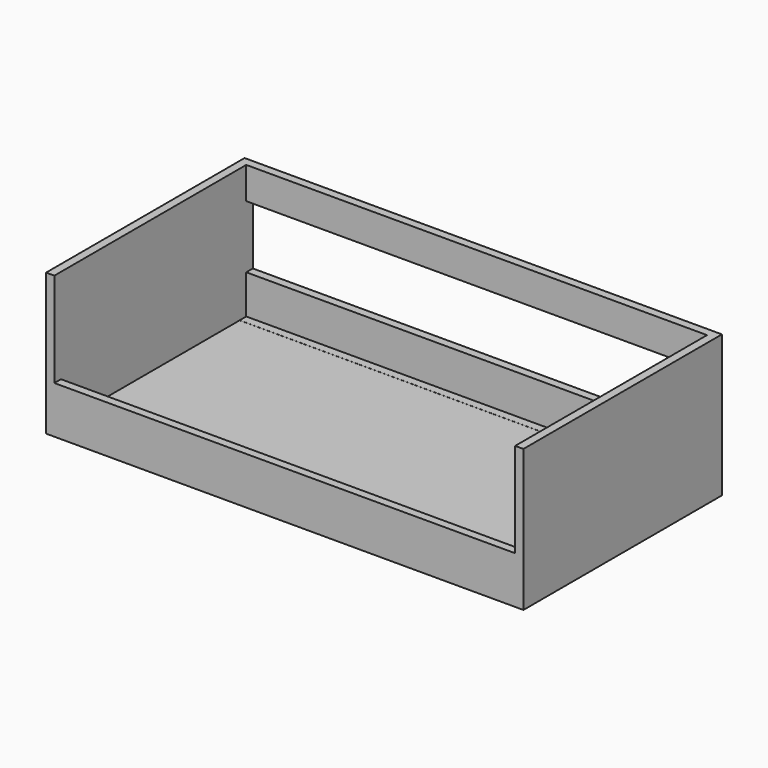
from build123d import *

# Parameters (mm, degrees)
F0_W     = 1950
F0_H     = 35
F1_DEPTH = 1050
F0_H_2   = 135
F0_H_3   = 165
F2_DEPTH = 35
F3_W     = 35
F3_H     = 35
F4_DEPTH = 975


with BuildPart() as f1:
    # F0 (on Front) → F1 (new body)
    with BuildSketch(Plane.XZ):
        Polygon((-975, -65), (-975, 100), (-975, 365), (-975, 500), (-1010, 500), (-1010, -100), (-975, -100), align=None)
        with Locations((0, -82.5)):
            Rectangle(F0_W, F0_H)
        Polygon((975, 365), (975, 100), (975, -65), (975, -100), (1010, -100), (1010, 500), (975, 500), align=None)
    extrude(amount=F1_DEPTH)

    # F0 (on Front) → F2 (join)
    with BuildSketch(Plane.XZ):
        Polygon((-975, -65), (-975, 100), (-975, 365), (-975, 500), (-1010, 500), (-1010, -100), (-975, -100), align=None)
        Polygon((975, 365), (975, 100), (975, -65), (975, -100), (1010, -100), (1010, 500), (975, 500), align=None)
        with Locations((0, -82.5)):
            Rectangle(F0_W, F0_H)
        with Locations((0, 432.5)):
            Rectangle(F0_W, F0_H_2)
        with Locations((0, 17.5)):
            Rectangle(F0_W, F0_H_3)
    extrude(amount=F2_DEPTH)

    # F3 (on Right) → F4 (join, symmetric)
    with BuildSketch(Plane.YZ):
        Polygon((-1015, 100), (-1050, 100), (-1050, -100), (-1015, -100), (-1015, -65), align=None)
        with Locations((-997.5, -82.5)):
            Rectangle(F3_W, F3_H)
        with Locations((-52.5, -82.198536)):
            Rectangle(F3_W, F3_H)
    extrude(amount=F4_DEPTH, both=True)


solid = f1.part
